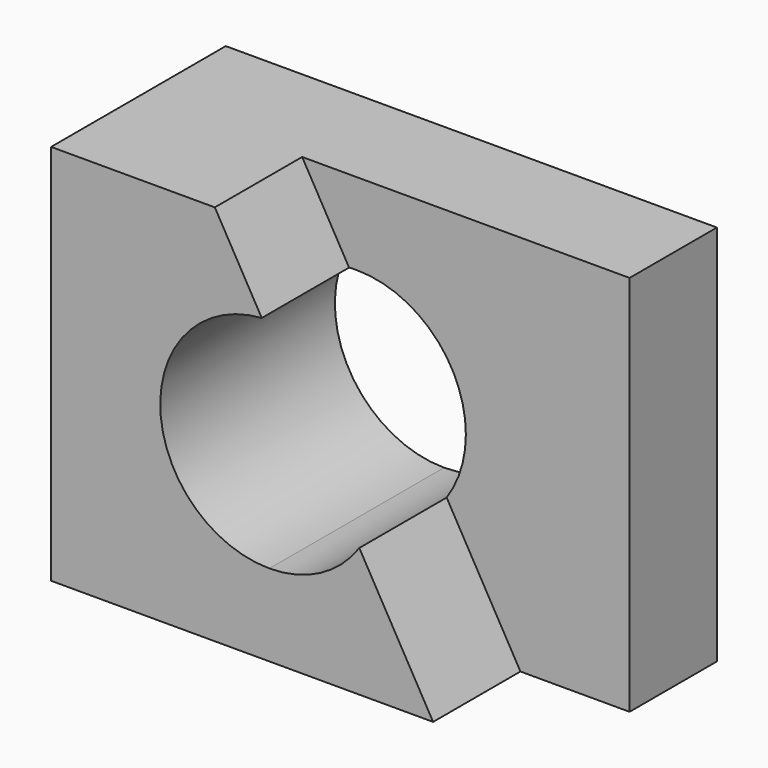
from build123d import *

# Parameters (mm, degrees)
F0_W     = 57.15
F0_H     = 44.45
F1_DEPTH = 25.4
F3_DEPTH = 25.401
F5_DEPTH = 12.7


with BuildPart() as f1:
    # F0 (on Front) → F1 (new body)
    with BuildSketch(Plane.XZ):
        with Locations((-1.039090705, 22.225)):
            Rectangle(F0_W, F0_H)
    extrude(amount=F1_DEPTH)

    # F2 (on face) → F3 (cut, through all)
    with BuildSketch(Plane.XZ.offset(25.4)):
        with BuildLine():
            Line((-4.214090705, 33.3375), (-4.214090705, 34.925))
            ThreePointArc((-4.214090705, 34.925), (-4.6590277858, 34.9172035516), (-5.1034185785, 34.8938237786))
            Line((-5.1034185785, 34.8938237786), (-4.214090705, 33.3375))
        make_face()
        with BuildLine():
            Line((6.2490833223, 15.0269454522), (-4.214090705, 33.3375))
            Line((-4.214090705, 33.3375), (-4.214090705, 9.525))
            ThreePointArc((-4.214090705, 9.525), (1.6966921214, 10.984330697), (6.2490833223, 15.0269454522))
        make_face()
        with BuildLine():
            ThreePointArc((8.485909295, 22.225), (4.7661654161, 31.2052561211), (-4.214090705, 34.925))
            Line((-4.214090705, 34.925), (-4.214090705, 33.3375))
            Line((-4.214090705, 33.3375), (6.2490833223, 15.0269454522))
            ThreePointArc((6.2490833223, 15.0269454522), (7.9138174029, 18.4562011295), (8.485909295, 22.225))
        make_face()
        with BuildLine():
            Line((-4.214090705, 9.525), (-4.214090705, 33.3375))
            Line((-4.214090705, 33.3375), (-5.1034185785, 34.8938237786))
            ThreePointArc((-5.1034185785, 34.8938237786), (-16.9062942566, 21.7800629192), (-4.214090705, 9.525))
        make_face()
    extrude(amount=-F3_DEPTH, mode=Mode.SUBTRACT)

    # F4 (on face) → F5 (cut)
    with BuildSketch(Plane.XZ.offset(25.4)):
        with BuildLine():
            Line((6.2490833223, 15.0269454522), (14.835909295, 0))
            Line((14.835909295, 0), (27.535909295, 0))
            Line((27.535909295, 0), (27.535909295, 44.45))
            Line((27.535909295, 44.45), (-10.564090705, 44.45))
            Line((-10.564090705, 44.45), (-5.1034185785, 34.8938237786))
            ThreePointArc((-5.1034185785, 34.8938237786), (4.4460344675, 31.5143612265), (8.485909295, 22.225))
            ThreePointArc((8.485909295, 22.225), (7.9138174029, 18.4562011295), (6.2490833223, 15.0269454522))
        make_face()
    extrude(amount=-F5_DEPTH, mode=Mode.SUBTRACT)


solid = f1.part
